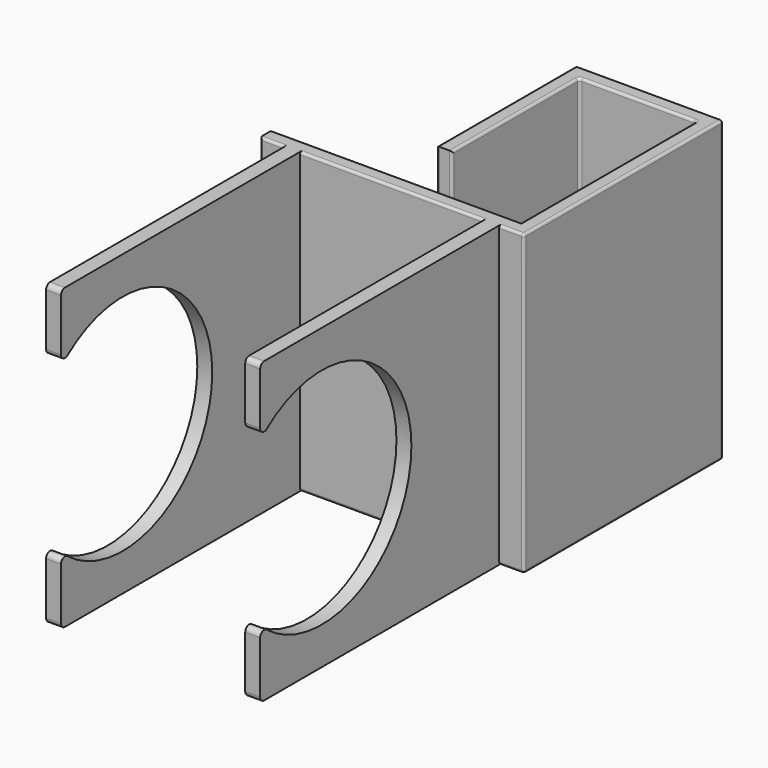
from build123d import *

# Parameters (mm, degrees)
F1_DEPTH = 60
F2_R     = 22.5
F3_DEPTH = 50
F4_R     = 1
F5_R     = 0.5


with BuildPart() as f1:
    # F0 (on Top) → F1 (new body)
    with BuildSketch(Plane.XY):
        Polygon((0, -50), (0, 0), (-3, 0), (-29.5, 0), (-29.5, -3), (-29.5, -35), (-26.5, -35), (-26.5, -3), (-3, -3), (-3, -47), (-53, -47), (-53, -50), (-48, -50), (-48, -110), (-45, -110), (-45, -50), (-8, -50), (-8, -110), (-5, -110), (-5, -50), (-3, -50), align=None)
    extrude(amount=F1_DEPTH)

    # F2 (on Right) → F3 (cut)
    with BuildSketch(Plane.YZ):
        with Locations((-94.5363938808, 30)):
            Circle(F2_R)
    extrude(amount=-F3_DEPTH, mode=Mode.SUBTRACT)

    # F4
    f4_edges = [f1.edges().sort_by_distance(p)[0] for p in [
        (-6.5, -110, 13.655983),
        (-6.5, -110, 46.344017),
        (-46.5, -110, 13.655983),
        (-46.5, -110, 46.344017),
        (-6.5, -110, 60),
        (-46.5, -110, 60),
        (-6.5, -110, 0),
        (-46.5, -110, 0),
    ]]
    fillet(f4_edges, radius=F4_R)

    # F5
    f5_edges = [f1.edges().sort_by_distance(p)[0] for p in [
        (-29.5, -35, 30),
        (-26.5, -35, 30),
        (-26.5, -19, 60),
        (-29.5, -17.5, 60),
        (-29.5, -17.5, 0),
        (-26.5, -19, 0),
        (-29.5, 0, 30),
        (-14.75, -3, 0),
        (-14.75, 0, 0),
        (-14.75, -3, 60),
        (-14.75, 0, 60),
        (0, 0, 30),
        (-26.5, -3, 30),
        (-3, -3, 30),
        (-3, -25, 60),
        (0, -25, 60),
        (-3, -25, 0),
        (0, -25, 0),
        (-28, -47, 60),
        (-26.5, -50, 60),
        (-50.5, -50, 60),
        (-2.5, -50, 60),
        (0, -50, 30),
        (-2.5, -50, 0),
        (-28, -47, 0),
        (-26.5, -50, 0),
        (-50.5, -50, 0),
        (-53, -47, 30),
        (-53, -50, 30),
    ]]
    fillet(f5_edges, radius=F5_R)


solid = f1.part
